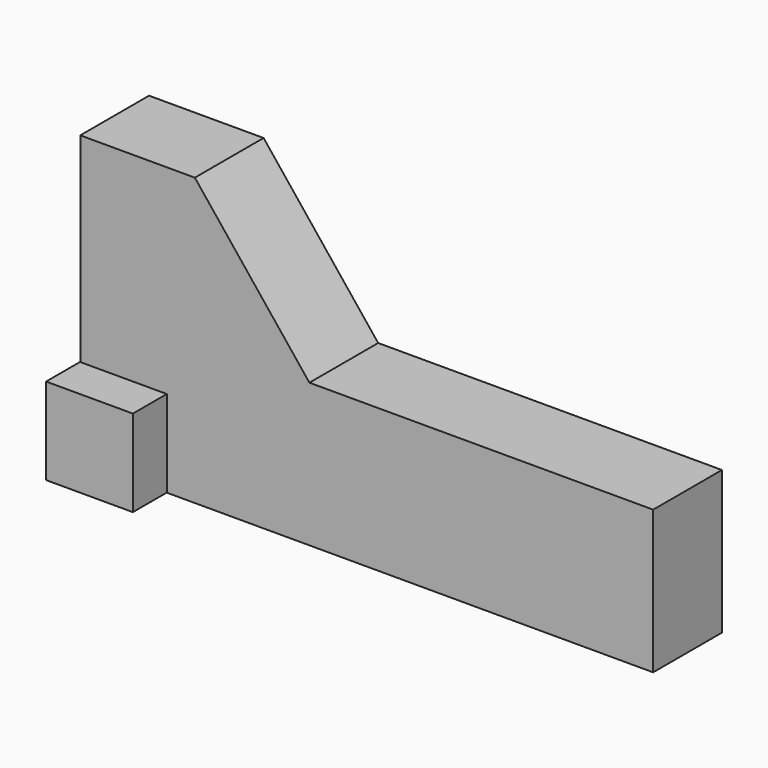
from build123d import *

# Parameters (mm, degrees)
F1_DEPTH = 19.05
F3_DEPTH = 9.525
F4_W     = 19.237377
F4_H     = 19.237377
F5_DEPTH = 28.448


with BuildPart() as f1:
    # F0 (on Front) → F1 (new body)
    with BuildSketch(Plane.XZ):
        Polygon((-24.528947, 34.191047), (-49.928947, 34.191047), (-49.928947, -29.308953), (77.071053, -29.308953), (77.071053, 2.441047), (0.871053, 2.441047), align=None)
    extrude(amount=F1_DEPTH)

    # F2 (on Front) → F3 (join)
    with BuildSketch(Plane.XZ):
        Polygon((-49.896031, -10.243278), (-49.896031, -29.293278), (-30.846031, -29.293278), (-30.846031, -10.055901), align=None)
    extrude(amount=-F3_DEPTH)

    # F4 (on Front) → F5 (join)
    with BuildSketch(Plane.XZ):
        with Locations((-40.371031, -19.674589)):
            Rectangle(F4_W, F4_H)
    extrude(amount=F5_DEPTH)


solid = f1.part
